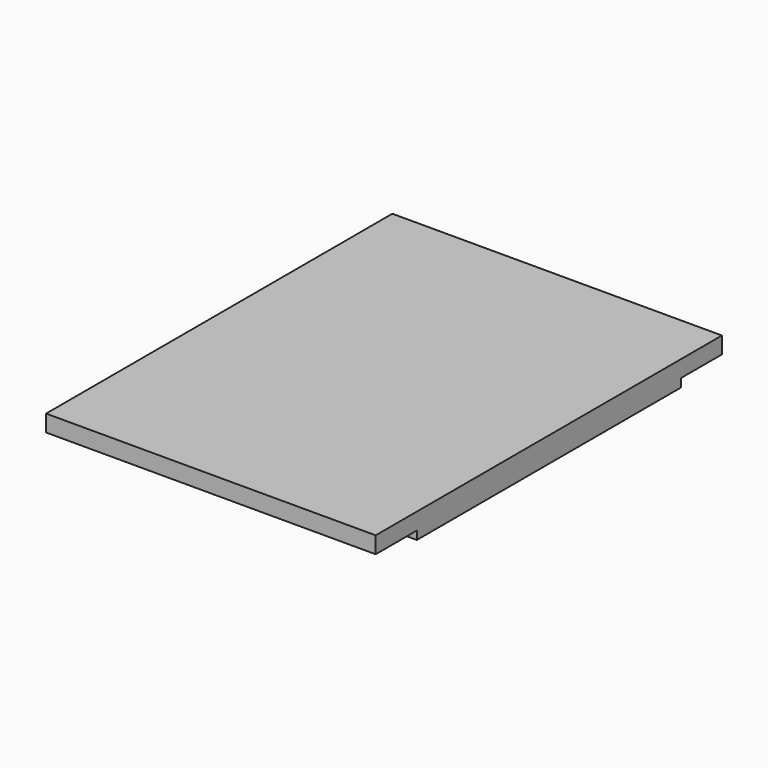
from build123d import *

# Parameters (mm, degrees)
F0_W     = 118.5
F0_H     = 155.6
F0_R     = 9.5
F1_DEPTH = 4
F2_W     = 118.5
F2_H     = 155.6
F3_DEPTH = 5
F4_R     = 12.5
F4_W     = 118.5
F4_H     = 18.5
F5_DEPTH = 3


with BuildPart() as f1:
    # F0 (on Top) → F1 (new body)
    with BuildSketch(Plane.XY):
        Rectangle(F0_W, F0_H)
        with Locations((-35, -25)):
            Circle(F0_R, mode=Mode.SUBTRACT)
        with Locations((0, -25)):
            Circle(F0_R, mode=Mode.SUBTRACT)
        with Locations((35, -25)):
            Circle(F0_R, mode=Mode.SUBTRACT)
        with Locations((-35, 25)):
            Circle(F0_R, mode=Mode.SUBTRACT)
        with Locations((0, 25)):
            Circle(F0_R, mode=Mode.SUBTRACT)
        with Locations((35, 25)):
            Circle(F0_R, mode=Mode.SUBTRACT)
    extrude(amount=F1_DEPTH)

    # F2 (on face) → F3 (join)
    with BuildSketch(Plane.XY.offset(4)):
        Rectangle(F2_W, F2_H)
    extrude(amount=F3_DEPTH)

    # F4 (on face) → F5 (cut)
    with BuildSketch(Plane(origin=(0, 0, 0), x_dir=(1, 0, 0), z_dir=(0, 0, -1))):
        with Locations((-35, 25)):
            Circle(F4_R)
        with Locations((-35, -25)):
            Circle(F4_R)
        with Locations((0, 25)):
            Circle(F4_R)
        with Locations((0, -25)):
            Circle(F4_R)
        with Locations((35, 25)):
            Circle(F4_R)
        with Locations((35, -25)):
            Circle(F4_R)
        with Locations((0, 68.55)):
            Rectangle(F4_W, F4_H)
        with Locations((0, -68.55)):
            Rectangle(F4_W, F4_H)
    extrude(amount=-F5_DEPTH, mode=Mode.SUBTRACT)


solid = f1.part
